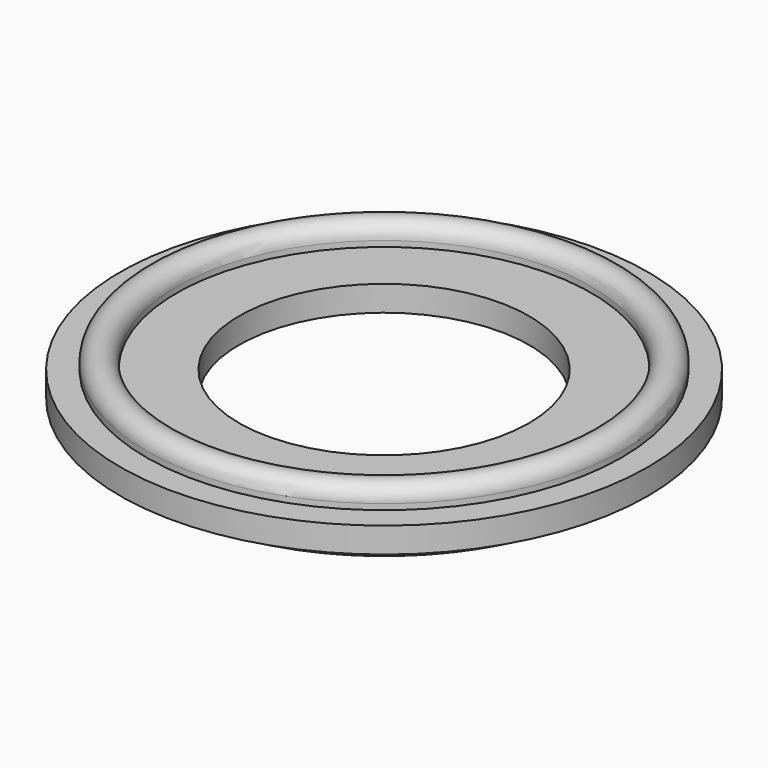
from build123d import *

# Parameters (mm, degrees)
F0_W   = 4.9
F0_H   = 2
F0_W_2 = 2.4
F0_W_3 = 2.05


with BuildPart() as f1:
    # F0 (on Front) → F1 (revolve)
    with BuildSketch(Plane.XZ):
        with Locations((13.85, 0)):
            Rectangle(F0_W, F0_H)
        with Locations((17.5, 0)):
            Rectangle(F0_W_2, F0_H)
        with BuildLine():
            Line((18.7, -1), (16.3, -1))
            Line((16.3, -1), (16.3, -1.45))
            ThreePointArc((16.3, -1.45), (17.5, -2.65), (18.7, -1.45))
            Line((18.7, -1.45), (18.7, -1))
        make_face()
        with Locations((19.725, 0)):
            Rectangle(F0_W_3, F0_H)
        with BuildLine():
            Line((16.3, 1.45), (16.3, 1))
            Line((16.3, 1), (18.7, 1))
            Line((18.7, 1), (18.7, 1.45))
            ThreePointArc((18.7, 1.45), (17.5, 2.65), (16.3, 1.45))
        make_face()
    revolve(axis=Axis((0, 0, 1.4775786549), (0, 0, -1)))


solid = f1.part
